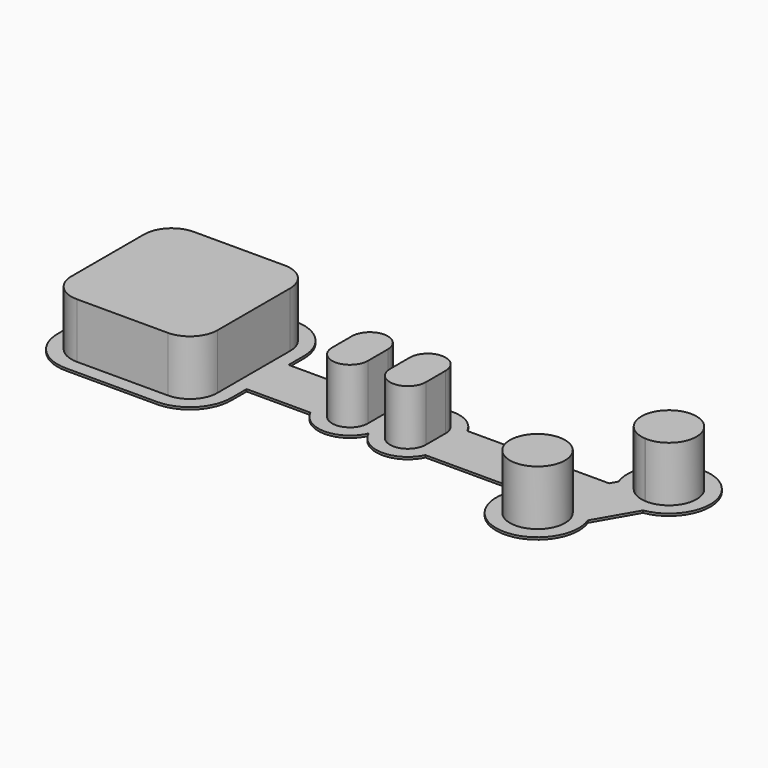
from build123d import *

# Parameters (mm, degrees)
F0_W     = 6.5
F0_H     = 4.5
F0_W_2   = 4
F1_DEPTH = 0.4
F2_W     = 6.5
F2_H     = 4.5
F3_DEPTH = 10


with BuildPart() as f1:
    # F0 (on Top) → F1 (new body)
    with BuildSketch(Plane.XY):
        with BuildLine():
            ThreePointArc((37.75, -4.5952078799), (42.9146576596, -7.9993666334), (48.1780787943, -4.75))
            Line((48.1780787943, -4.75), (65.2471210858, -4.75))
            ThreePointArc((65.2471210858, -4.75), (70.9464832256, -16.1274567319), (78.6627816766, -6.0087617221))
            Line((78.6627816766, -6.0087617221), (82.8586882934, 1.2587617221))
            ThreePointArc((82.8586882934, 1.2587617221), (85.397114317, 15.1554445662), (74.6314469575, 6.0087617221))
            Line((74.6314469575, 6.0087617221), (73.9047005384, 4.75))
            Line((73.9047005384, 4.75), (48.1780787943, 4.75))
            ThreePointArc((48.1780787943, 4.75), (42.9146576596, 7.9993666334), (37.75, 4.5952078799))
            ThreePointArc((37.75, 4.5952078799), (32.5853423404, 7.9993666334), (27.3219212057, 4.75))
            Line((27.3219212057, 4.75), (15.75, 4.75))
            Line((15.75, 4.75), (15.75, 8.25))
            ThreePointArc((15.75, 8.25), (13.5533008589, 13.5533008589), (8.25, 15.75))
            Line((8.25, 15.75), (-8.25, 15.75))
            ThreePointArc((-8.25, 15.75), (-13.5533008589, 13.5533008589), (-15.75, 8.25))
            Line((-15.75, 8.25), (-15.75, -8.25))
            ThreePointArc((-15.75, -8.25), (-13.5533008589, -13.5533008589), (-8.25, -15.75))
            Line((-8.25, -15.75), (8.25, -15.75))
            ThreePointArc((8.25, -15.75), (13.5533008589, -13.5533008589), (15.75, -8.25))
            Line((15.75, -8.25), (15.75, -4.75))
            Line((15.75, -4.75), (27.3219212057, -4.75))
            ThreePointArc((27.3219212057, -4.75), (32.5853423404, -7.9993666334), (37.75, -4.5952078799))
        make_face()
        with BuildLine():
            ThreePointArc((-13.25, 8.25), (-11.7855339059, 11.7855339059), (-8.25, 13.25))
            Line((-8.25, 13.25), (-4.5, 13.25))
            Line((-4.5, 13.25), (4.5, 13.25))
            Line((4.5, 13.25), (8.25, 13.25))
            ThreePointArc((8.25, 13.25), (11.7855339059, 11.7855339059), (13.25, 8.25))
            Line((13.25, 8.25), (13.25, 4.5))
            Line((13.25, 4.5), (13.25, 2.25))
            Line((13.25, 2.25), (29.25, 2.25))
            ThreePointArc((29.25, 2.25), (32.5, 5.5), (35.75, 2.25))
            Line((35.75, 2.25), (39.75, 2.25))
            ThreePointArc((39.75, 2.25), (43, 5.5), (46.25, 2.25))
            Line((46.25, 2.25), (75.3480762114, 2.25))
            Line((75.3480762114, 2.25), (77.4659857711, 5.9183269633))
            ThreePointArc((77.4659857711, 5.9183269633), (84.147114317, 12.9903810568), (81.3631000881, 3.6683269633))
            Line((81.3631000881, 3.6683269633), (75.828242863, -5.9183269633))
            ThreePointArc((75.828242863, -5.9183269633), (69.1938526202, -13.0170311778), (71.8236394943, -3.6633711233))
            ThreePointArc((71.8236394943, -3.6633711233), (71.8529421017, -3.6644923419), (71.8822376294, -3.6657853946))
            ThreePointArc((71.8822376294, -3.6657853946), (71.9066861984, -3.6669963399), (71.931128546, -3.6683269633))
            Line((71.931128546, -3.6683269633), (72.75, -2.25))
            Line((72.75, -2.25), (46.25, -2.25))
            ThreePointArc((46.25, -2.25), (43, -5.5), (39.75, -2.25))
            Line((39.75, -2.25), (35.75, -2.25))
            ThreePointArc((35.75, -2.25), (32.5, -5.5), (29.25, -2.25))
            Line((29.25, -2.25), (13.25, -2.25))
            Line((13.25, -2.25), (13.25, -4.5))
            Line((13.25, -4.5), (13.25, -8.25))
            ThreePointArc((13.25, -8.25), (11.7855339059, -11.7855339059), (8.25, -13.25))
            Line((8.25, -13.25), (4.5, -13.25))
            Line((4.5, -13.25), (-4.5, -13.25))
            Line((-4.5, -13.25), (-8.25, -13.25))
            ThreePointArc((-8.25, -13.25), (-11.7855339059, -11.7855339059), (-13.25, -8.25))
            Line((-13.25, -8.25), (-13.25, -4.5))
            Line((-13.25, -4.5), (-13.25, 4.5))
            Line((-13.25, 4.5), (-13.25, 8.25))
        make_face(mode=Mode.SUBTRACT)
        Polygon((75.3480762114, 2.25), (46.25, 2.25), (46.25, -2.25), (72.75, -2.25), align=None)
        Polygon((-4.5, 0), (-4.5, 4.5), (-13.25, 4.5), (-13.25, -4.5), (-4.5, -4.5), align=None)
        Polygon((13.25, 4.5), (4.5, 4.5), (4.5, 0), (4.5, -4.5), (13.25, -4.5), (13.25, -2.25), (13.25, -2.0446819253), (13.25, 2.25), align=None)
        Polygon((4.5, -4.5), (0, -4.5), (-4.5, -4.5), (-4.5, -13.25), (4.5, -13.25), align=None)
        Polygon((4.5, 13.25), (-4.5, 13.25), (-4.5, 4.5), (0, 4.5), (4.5, 4.5), align=None)
        with BuildLine():
            ThreePointArc((75.828242863, -5.9183269633), (74.147114317, -4.3301270189), (71.931128546, -3.6683269633))
            ThreePointArc((71.931128546, -3.6683269633), (71.9066861984, -3.6669963399), (71.8822376294, -3.6657853946))
            ThreePointArc((71.8822376294, -3.6657853946), (71.8529421017, -3.6644923419), (71.8236394943, -3.6633711233))
            ThreePointArc((71.8236394943, -3.6633711233), (69.1938526202, -13.0170311778), (75.828242863, -5.9183269633))
        make_face()
        with BuildLine():
            ThreePointArc((81.3631000881, 3.6683269633), (84.147114317, 12.9903810568), (77.4659857711, 5.9183269633))
            ThreePointArc((77.4659857711, 5.9183269633), (79.1259688283, 4.3424044081), (81.3142907631, 3.6713434872))
            ThreePointArc((81.3142907631, 3.6713434872), (81.3386917377, 3.6697755525), (81.3631000881, 3.6683269633))
        make_face()
        Polygon((29.25, 2.25), (13.25, 2.25), (13.25, -2.0446819253), (13.25, -2.25), (29.25, -2.25), align=None)
        with BuildLine():
            Line((13.25, -4.5), (4.5, -4.5))
            Line((4.5, -4.5), (4.5, -13.25))
            Line((4.5, -13.25), (8.25, -13.25))
            ThreePointArc((8.25, -13.25), (11.7855339059, -11.7855339059), (13.25, -8.25))
            Line((13.25, -8.25), (13.25, -4.5))
        make_face()
        with BuildLine():
            Line((-4.5, 13.25), (-8.25, 13.25))
            ThreePointArc((-8.25, 13.25), (-11.7855339059, 11.7855339059), (-13.25, 8.25))
            Line((-13.25, 8.25), (-13.25, 4.5))
            Line((-13.25, 4.5), (-4.5, 4.5))
            Line((-4.5, 4.5), (-4.5, 13.25))
        make_face()
        with BuildLine():
            Line((8.25, 13.25), (4.5, 13.25))
            Line((4.5, 13.25), (4.5, 4.5))
            Line((4.5, 4.5), (13.25, 4.5))
            Line((13.25, 4.5), (13.25, 8.25))
            ThreePointArc((13.25, 8.25), (11.7855339059, 11.7855339059), (8.25, 13.25))
        make_face()
        with BuildLine():
            Line((-4.5, -4.5), (-13.25, -4.5))
            Line((-13.25, -4.5), (-13.25, -8.25))
            ThreePointArc((-13.25, -8.25), (-11.7855339059, -11.7855339059), (-8.25, -13.25))
            Line((-8.25, -13.25), (-4.5, -13.25))
            Line((-4.5, -13.25), (-4.5, -4.5))
        make_face()
        with BuildLine():
            ThreePointArc((0, 4.5), (-3.1819805153, 3.1819805153), (-4.5, 0))
            ThreePointArc((-4.5, 0), (-3.1819805153, -3.1819805153), (0, -4.5))
            ThreePointArc((0, -4.5), (3.1819805153, -3.1819805153), (4.5, 0))
            ThreePointArc((4.5, 0), (3.1819805153, 3.1819805153), (0, 4.5))
        make_face()
        with BuildLine():
            Line((77.4659857711, 5.9183269633), (75.3480762114, 2.25))
            Line((75.3480762114, 2.25), (72.75, -2.25))
            Line((72.75, -2.25), (71.931128546, -3.6683269633))
            ThreePointArc((71.931128546, -3.6683269633), (74.147114317, -4.3301270189), (75.828242863, -5.9183269633))
            Line((75.828242863, -5.9183269633), (81.3631000881, 3.6683269633))
            ThreePointArc((81.3631000881, 3.6683269633), (81.3386917377, 3.6697755525), (81.3142907631, 3.6713434872))
            ThreePointArc((81.3142907631, 3.6713434872), (79.1259688283, 4.3424044081), (77.4659857711, 5.9183269633))
        make_face()
        with Locations((32.5, 0)):
            Rectangle(F0_W, F0_H)
        with Locations((43, 0)):
            Rectangle(F0_W, F0_H)
        with Locations((37.75, 0)):
            Rectangle(F0_W_2, F0_H)
        with BuildLine():
            Line((46.25, -2.25), (39.75, -2.25))
            ThreePointArc((39.75, -2.25), (43, -5.5), (46.25, -2.25))
        make_face()
        with BuildLine():
            ThreePointArc((46.25, 2.25), (43, 5.5), (39.75, 2.25))
            Line((39.75, 2.25), (46.25, 2.25))
        make_face()
        with BuildLine():
            Line((35.75, -2.25), (29.25, -2.25))
            ThreePointArc((29.25, -2.25), (32.5, -5.5), (35.75, -2.25))
        make_face()
        with BuildLine():
            ThreePointArc((35.75, 2.25), (32.5, 5.5), (29.25, 2.25))
            Line((29.25, 2.25), (35.75, 2.25))
        make_face()
        with BuildLine():
            Line((4.5, 0), (4.5, 4.5))
            Line((4.5, 4.5), (0, 4.5))
            ThreePointArc((0, 4.5), (3.1819805153, 3.1819805153), (4.5, 0))
        make_face()
        with BuildLine():
            Line((0, 4.5), (-4.5, 4.5))
            Line((-4.5, 4.5), (-4.5, 0))
            ThreePointArc((-4.5, 0), (-3.1819805153, 3.1819805153), (0, 4.5))
        make_face()
        with BuildLine():
            ThreePointArc((0, -4.5), (-3.1819805153, -3.1819805153), (-4.5, 0))
            Line((-4.5, 0), (-4.5, -4.5))
            Line((-4.5, -4.5), (0, -4.5))
        make_face()
        with BuildLine():
            Line((4.5, -4.5), (4.5, 0))
            ThreePointArc((4.5, 0), (3.1819805153, -3.1819805153), (0, -4.5))
            Line((0, -4.5), (4.5, -4.5))
        make_face()
    extrude(amount=F1_DEPTH)

    # F2 (on face) → F3 (join)
    with BuildSketch(Plane.XY.offset(0.4)):
        with BuildLine():
            Line((-4.5, 13.25), (-8.25, 13.25))
            ThreePointArc((-8.25, 13.25), (-11.7855339059, 11.7855339059), (-13.25, 8.25))
            Line((-13.25, 8.25), (-13.25, 4.5))
            Line((-13.25, 4.5), (-4.5, 4.5))
            Line((-4.5, 4.5), (-4.5, 13.25))
        make_face()
        Polygon((4.5, 13.25), (-4.5, 13.25), (-4.5, 4.5), (0, 4.5), (4.5, 4.5), align=None)
        with BuildLine():
            Line((8.25, 13.25), (4.5, 13.25))
            Line((4.5, 13.25), (4.5, 4.5))
            Line((4.5, 4.5), (13.25, 4.5))
            Line((13.25, 4.5), (13.25, 8.25))
            ThreePointArc((13.25, 8.25), (11.7855339059, 11.7855339059), (8.25, 13.25))
        make_face()
        Polygon((13.25, 4.5), (4.5, 4.5), (4.5, 0), (4.5, -4.5), (13.25, -4.5), (13.25, -2.25), (13.25, -2.0446819253), (13.25, 2.25), align=None)
        with BuildLine():
            Line((13.25, -4.5), (4.5, -4.5))
            Line((4.5, -4.5), (4.5, -13.25))
            Line((4.5, -13.25), (8.25, -13.25))
            ThreePointArc((8.25, -13.25), (11.7855339059, -11.7855339059), (13.25, -8.25))
            Line((13.25, -8.25), (13.25, -4.5))
        make_face()
        Polygon((4.5, -4.5), (0, -4.5), (-4.5, -4.5), (-4.5, -13.25), (4.5, -13.25), align=None)
        with BuildLine():
            Line((-4.5, -4.5), (-13.25, -4.5))
            Line((-13.25, -4.5), (-13.25, -8.25))
            ThreePointArc((-13.25, -8.25), (-11.7855339059, -11.7855339059), (-8.25, -13.25))
            Line((-8.25, -13.25), (-4.5, -13.25))
            Line((-4.5, -13.25), (-4.5, -4.5))
        make_face()
        Polygon((-4.5, 0), (-4.5, 4.5), (-13.25, 4.5), (-13.25, -4.5), (-4.5, -4.5), align=None)
        with BuildLine():
            ThreePointArc((0, 4.5), (-3.1819805153, 3.1819805153), (-4.5, 0))
            ThreePointArc((-4.5, 0), (-3.1819805153, -3.1819805153), (0, -4.5))
            ThreePointArc((0, -4.5), (3.1819805153, -3.1819805153), (4.5, 0))
            ThreePointArc((4.5, 0), (3.1819805153, 3.1819805153), (0, 4.5))
        make_face()
        with BuildLine():
            Line((4.5, -4.5), (4.5, 0))
            ThreePointArc((4.5, 0), (3.1819805153, -3.1819805153), (0, -4.5))
            Line((0, -4.5), (4.5, -4.5))
        make_face()
        with BuildLine():
            Line((4.5, 0), (4.5, 4.5))
            Line((4.5, 4.5), (0, 4.5))
            ThreePointArc((0, 4.5), (3.1819805153, 3.1819805153), (4.5, 0))
        make_face()
        with BuildLine():
            Line((0, 4.5), (-4.5, 4.5))
            Line((-4.5, 4.5), (-4.5, 0))
            ThreePointArc((-4.5, 0), (-3.1819805153, 3.1819805153), (0, 4.5))
        make_face()
        with BuildLine():
            ThreePointArc((0, -4.5), (-3.1819805153, -3.1819805153), (-4.5, 0))
            Line((-4.5, 0), (-4.5, -4.5))
            Line((-4.5, -4.5), (0, -4.5))
        make_face()
        with BuildLine():
            ThreePointArc((35.75, 2.25), (32.5, 5.5), (29.25, 2.25))
            Line((29.25, 2.25), (35.75, 2.25))
        make_face()
        with Locations((32.5, 0)):
            Rectangle(F2_W, F2_H)
        with BuildLine():
            Line((35.75, -2.25), (29.25, -2.25))
            ThreePointArc((29.25, -2.25), (32.5, -5.5), (35.75, -2.25))
        make_face()
        with BuildLine():
            Line((46.25, -2.25), (39.75, -2.25))
            ThreePointArc((39.75, -2.25), (43, -5.5), (46.25, -2.25))
        make_face()
        with Locations((43, 0)):
            Rectangle(F2_W, F2_H)
        with BuildLine():
            ThreePointArc((46.25, 2.25), (43, 5.5), (39.75, 2.25))
            Line((39.75, 2.25), (46.25, 2.25))
        make_face()
        with BuildLine():
            ThreePointArc((81.3631000881, 3.6683269633), (84.147114317, 12.9903810568), (77.4659857711, 5.9183269633))
            ThreePointArc((77.4659857711, 5.9183269633), (78.2134625543, 5.0256927751), (79.147114317, 4.3301270189))
            ThreePointArc((79.147114317, 4.3301270189), (80.1929061967, 3.8763979841), (81.3142907631, 3.6713434872))
            ThreePointArc((81.3142907631, 3.6713434872), (81.3386917377, 3.6697755525), (81.3631000881, 3.6683269633))
        make_face()
        with BuildLine():
            ThreePointArc((74.147114317, -4.3301270189), (73.0779108208, -3.8693437522), (71.931128546, -3.6683269633))
            ThreePointArc((71.931128546, -3.6683269633), (71.9066861984, -3.6669963399), (71.8822376294, -3.6657853946))
            ThreePointArc((71.8822376294, -3.6657853946), (71.8529421017, -3.6644923419), (71.8236394943, -3.6633711233))
            ThreePointArc((71.8236394943, -3.6633711233), (69.1938526202, -13.0170311778), (75.828242863, -5.9183269633))
            ThreePointArc((75.828242863, -5.9183269633), (75.0807660798, -5.0256927751), (74.147114317, -4.3301270189))
        make_face()
    extrude(amount=F3_DEPTH)


solid = f1.part
